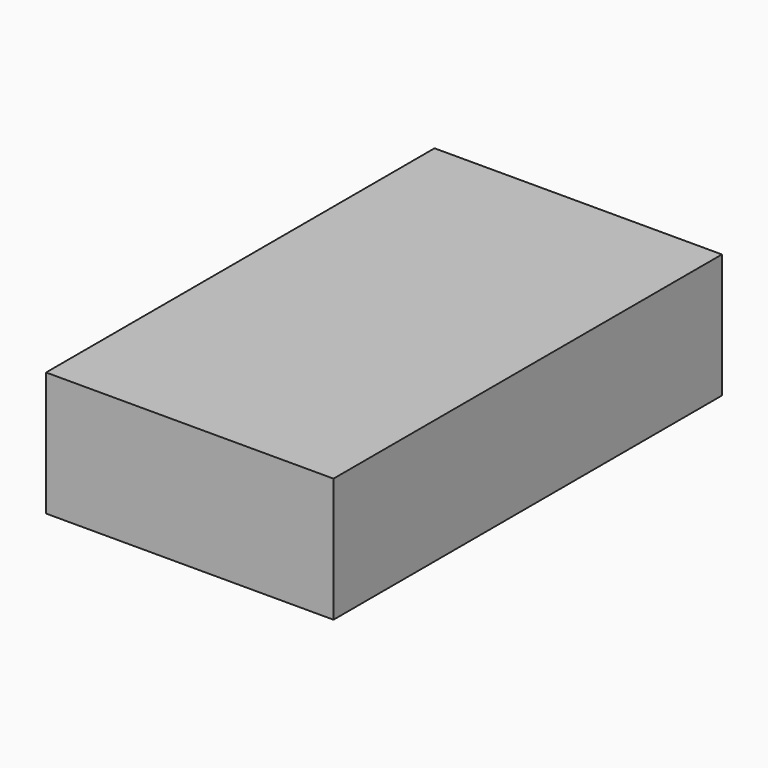
from build123d import *

# Parameters (mm, degrees)
F1_W     = 58.773093
F1_H     = 99.286083
F3_DEPTH = 25.4
F4_W     = 42.263355
F4_H     = 81.185479
F5_DEPTH = 127
F2_W     = 58.773093
F2_H     = 99.286083
F6_DEPTH = 25.4


with BuildPart() as f3:
    # F1 (on face) → F3 (new body)
    with BuildSketch(Plane.XY):
        with Locations((29.386546, 9.857067)):
            Rectangle(F1_W, F1_H)
    extrude(amount=F3_DEPTH)

    # F4 (on face) → F5 (cut)
    with BuildSketch(Plane.XY):
        with Locations((25.919133, 11.294613)):
            Rectangle(F4_W, F4_H)
    extrude(amount=-F5_DEPTH, mode=Mode.SUBTRACT)

    # F2 (on face) → F6 (cut)
    with BuildSketch(Plane.XY):
        with Locations((29.386546, 9.857067)):
            Rectangle(F2_W, F2_H)
    extrude(amount=-F6_DEPTH, mode=Mode.SUBTRACT)


solid = f3.part
